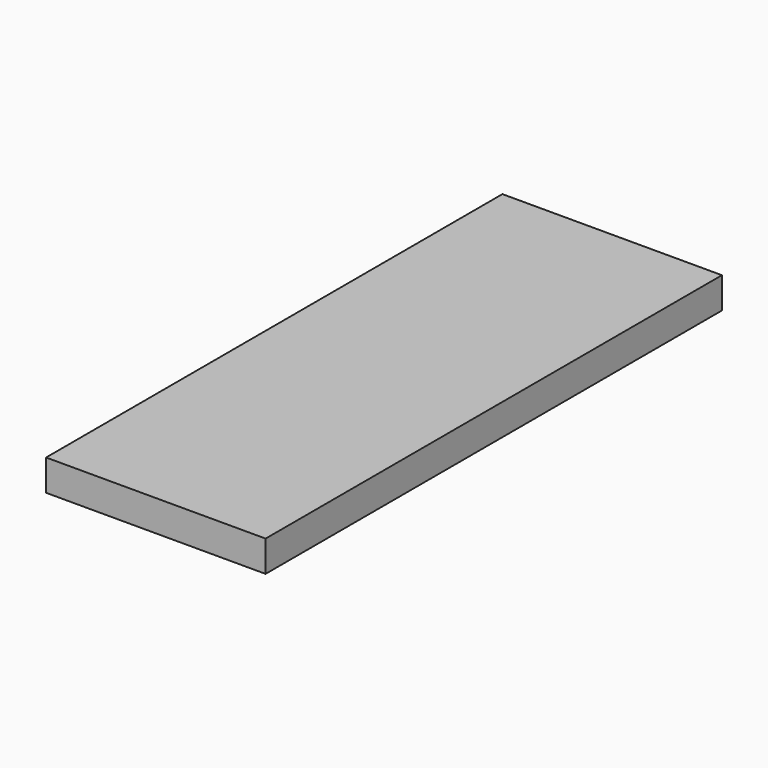
from build123d import *

# Parameters (mm, degrees)
F1_W     = 38.836177
F1_H     = 100.915215
F2_DEPTH = 5.5


with BuildPart() as f2:
    # F1 (on offset) → F2 (new body)
    with BuildSketch(Plane.XY.offset(-65)):
        with Locations((-32.363481, 57.094831)):
            Rectangle(F1_W, F1_H)
    extrude(amount=F2_DEPTH)


solid = f2.part
